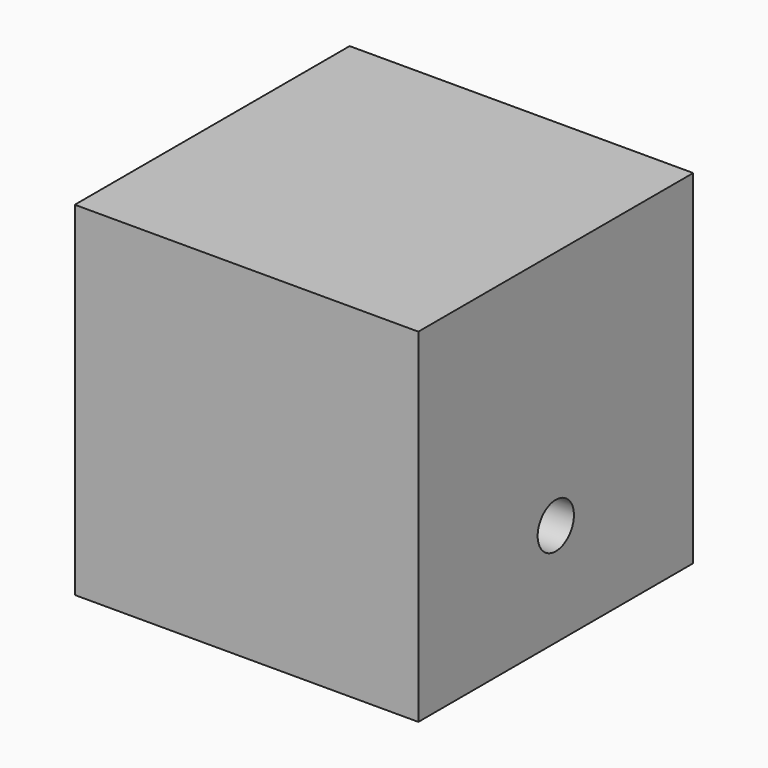
from build123d import *

# Parameters (mm, degrees)
F0_W     = 50
F0_H     = 50
F1_DEPTH = 50
F3_D     = 6.6


with BuildPart() as f1:
    # F0 (on Front) → F1 (new body)
    with BuildSketch(Plane.XZ):
        with Locations((25, 25)):
            Rectangle(F0_W, F0_H)
    extrude(amount=F1_DEPTH)

    # F3 (through all)
    with Locations(Plane.YZ.offset(50)):
        with Locations((-25, 15)):
            Hole(F3_D / 2)


solid = f1.part
